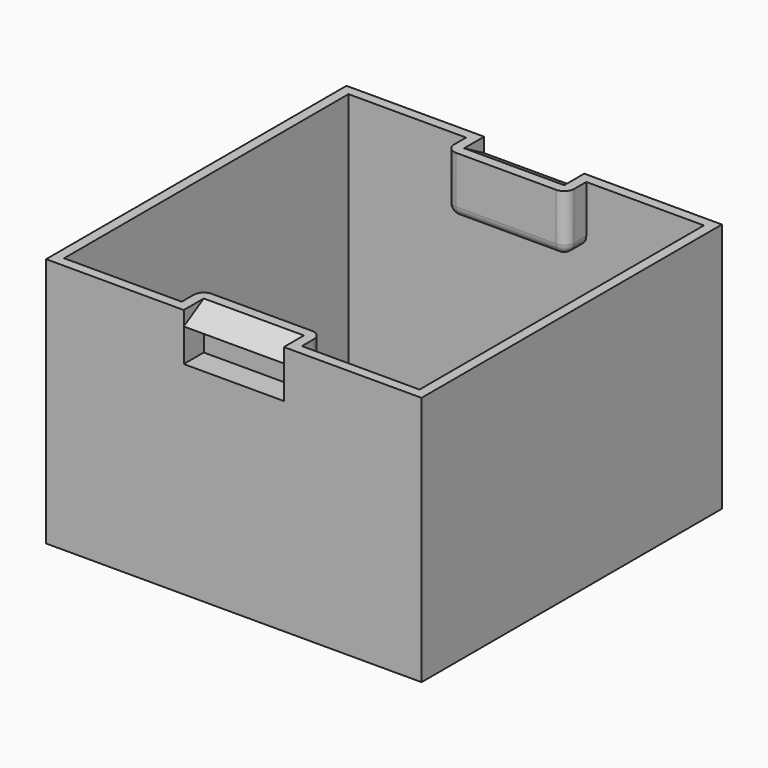
from build123d import *

# Parameters (mm, degrees)
SKETCH_W     = 75
SKETCH_H     = 75
PAD_DEPTH    = 50
SKETCH001_W  = 20
SKETCH001_H  = 10
POCKET_DEPTH = 5
THICKNESS_T  = -2
PAD001_DEPTH = 20


with BuildPart() as part:
    # Sketch → Pad (new body)
    with BuildSketch(Plane.XY):
        Rectangle(SKETCH_W, SKETCH_H)
    extrude(amount=PAD_DEPTH)

    # Sketch001 (on Face2 of Pad) → Pocket (cut)
    with BuildSketch(Plane.XZ.offset(37.5)):
        with Locations((0, 45.5)):
            Rectangle(SKETCH001_W, SKETCH001_H)
    pocket = extrude(amount=-POCKET_DEPTH, mode=Mode.SUBTRACT)

    # Mirrored: Pocket across XZ
    add(pocket.mirror(Plane.XZ), mode=Mode.SUBTRACT)

    # Thickness
    thickness_openings = [part.faces().sort_by_distance(p)[0] for p in [
        (0, 0, 50),
    ]]
    offset(amount=THICKNESS_T, openings=thickness_openings)

    # Sketch002 (on Face11 of Thickness) → Pad001 (join)
    with BuildSketch(Plane.YZ.offset(-10)):
        Polygon((-32.5, 50), (-37.5, 47.113249), (-32.5, 44.226497), align=None)
    pad001 = extrude(amount=PAD001_DEPTH)

    # Mirrored001: Pad001 across XZ
    add(pad001.mirror(Plane.XZ))


solid = part.part
